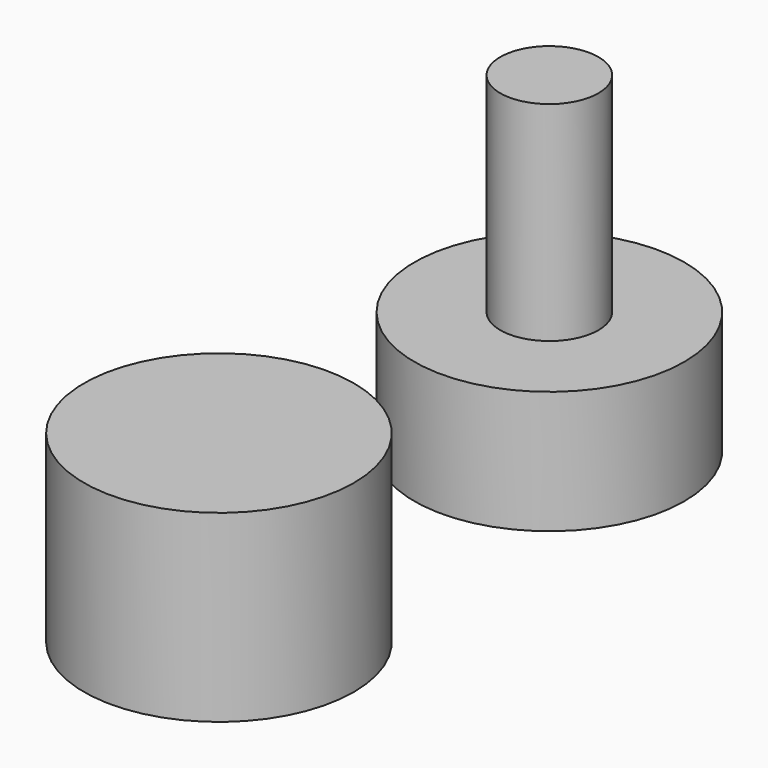
from build123d import *

# Parameters (mm, degrees)
F0_R     = 11
F1_DEPTH = 10
F2_R     = 4
F3_DEPTH = 17
F4_R     = 11
F5_DEPTH = 15


with BuildPart() as f1:
    # F0 (on Top) → F1 (new body)
    with BuildSketch(Plane.XY):
        Circle(F0_R)
    extrude(amount=F1_DEPTH)

    # F2 (on face) → F3 (join)
    with BuildSketch(Plane.XY.offset(10)):
        Circle(F2_R)
    extrude(amount=F3_DEPTH)


with BuildPart() as f5:
    # F4 (on Top) → F5 (new body)
    with BuildSketch(Plane.XY):
        with Locations((0, -33.659276)):
            Circle(F4_R)
    extrude(amount=F5_DEPTH)


solid = Compound([f1.part, f5.part])
